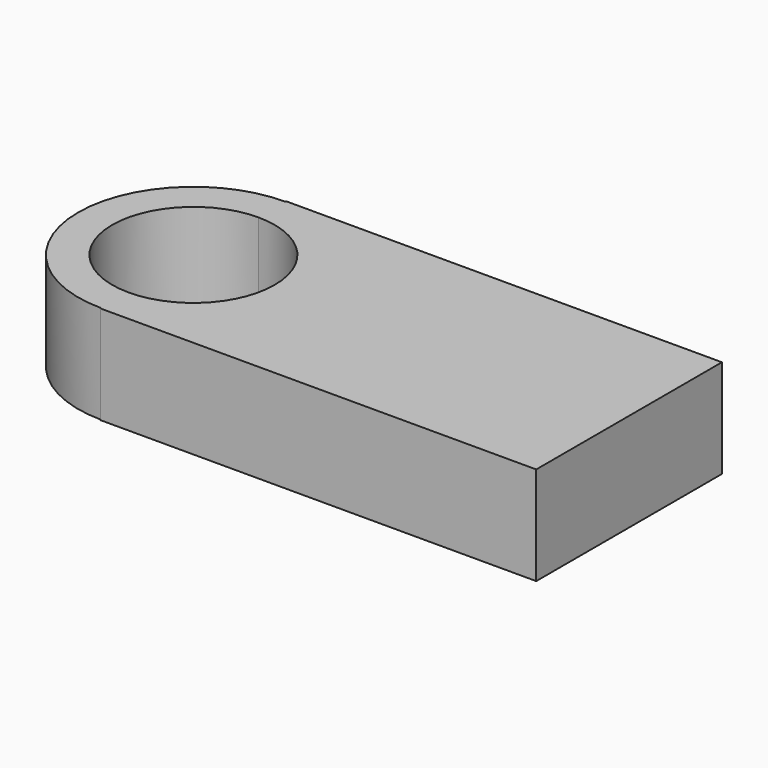
from build123d import *

# Parameters (mm, degrees)
F1_DEPTH = 13.462


with BuildPart() as f1:
    # F0 (on Top) → F1 (new body)
    with BuildSketch(Plane.XY):
        with BuildLine():
            ThreePointArc((-59.6317946911, 31.657047675), (-75.4021500358, 15.8866923302), (-59.6317946911, 0.1163369855))
            Line((-59.6317946911, 0.1163369855), (-59.6317946911, 4.7672285812))
            ThreePointArc((-59.6317946911, 4.7672285812), (-70.7512584401, 15.8866923302), (-59.6317946911, 27.0061560793))
            Line((-59.6317946911, 27.0061560793), (-59.6317946911, 31.657047675))
        make_face()
        with BuildLine():
            Line((-59.6317946911, 4.7672285812), (-59.6317946911, 0.1163369855))
            ThreePointArc((-59.6317946911, 0.1163369855), (-48.4804694851, 4.7353671243), (-43.8614393464, 15.8866923302))
            ThreePointArc((-43.8614393464, 15.8866923302), (-48.4804694851, 27.0380175362), (-59.6317946911, 31.657047675))
            Line((-59.6317946911, 31.657047675), (-59.6317946911, 27.0061560793))
            ThreePointArc((-59.6317946911, 27.0061560793), (-51.769146471, 23.7493405504), (-48.512330942, 15.8866923302))
            ThreePointArc((-48.512330942, 15.8866923302), (-51.769146471, 8.0240441101), (-59.6317946911, 4.7672285812))
        make_face()
        with BuildLine():
            Line((-59.6317946911, 0), (0, 0))
            Line((0, 0), (0, 31.7733846605))
            Line((0, 31.7733846605), (-59.6317946911, 31.7733846605))
            Line((-59.6317946911, 31.7733846605), (-59.6317946911, 31.657047675))
            ThreePointArc((-59.6317946911, 31.657047675), (-48.4804694851, 27.0380175362), (-43.8614393464, 15.8866923302))
            ThreePointArc((-43.8614393464, 15.8866923302), (-48.4804694851, 4.7353671243), (-59.6317946911, 0.1163369855))
            Line((-59.6317946911, 0.1163369855), (-59.6317946911, 0))
        make_face()
    extrude(amount=F1_DEPTH)


solid = f1.part
